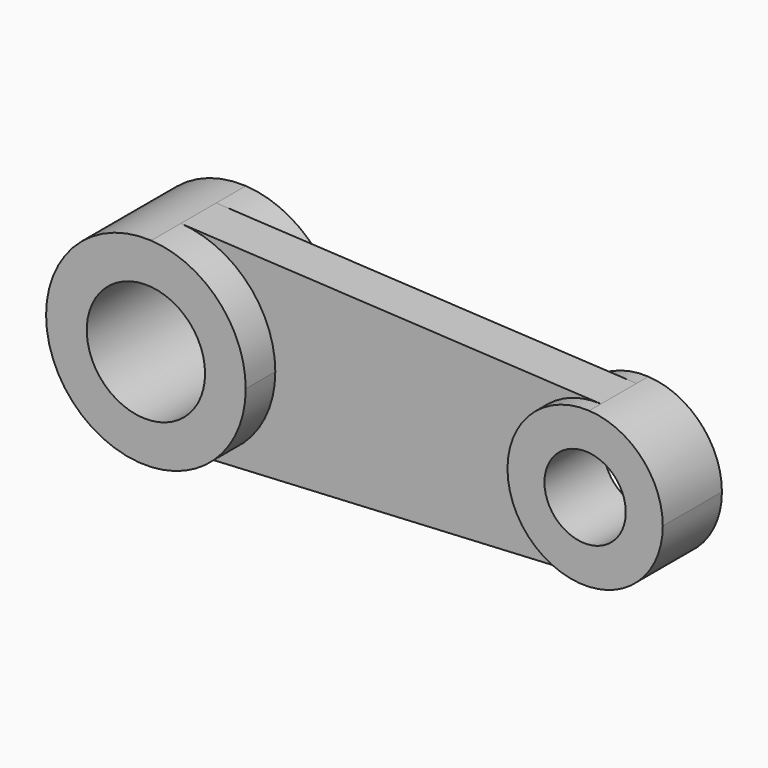
from build123d import *

# Parameters (mm, degrees)
F0_R     = 25.4
F1_DEPTH = 25.4
F2_DEPTH = 15.875
F3_DEPTH = 9.525


with BuildPart() as f1:
    # F0 (on Front) → F1 (new body, symmetric)
    with BuildSketch(Plane.XZ):
        with BuildLine():
            ThreePointArc((-40.645878, -42.803092), (-11.806073, -29.499996), (-0.039299, 0))
            ThreePointArc((-0.039299, 0), (-11.806073, 29.499996), (-40.645878, 42.803092))
            ThreePointArc((-40.645878, 42.803092), (-85.764299, 0), (-40.645878, -42.803092))
        make_face()
        with Locations((-42.901799, 0)):
            Circle(F0_R, mode=Mode.SUBTRACT)
    extrude(amount=F1_DEPTH, both=True)


with BuildPart() as f2:
    # F0 (on Front) → F2 (new body, symmetric)
    with BuildSketch(Plane.XZ):
        with BuildLine():
            ThreePointArc((139.827806, 33.291294), (115.12876, 24.185564), (104.735701, 0))
            ThreePointArc((104.735701, 0), (115.12876, -24.185564), (139.827806, -33.291294))
            ThreePointArc((139.827806, -33.291294), (162.258765, -22.944441), (171.410701, 0))
            ThreePointArc((171.410701, 0), (162.258765, 22.944441), (139.827806, 33.291294))
        make_face()
        with BuildLine():
            ThreePointArc((155.535701, 0), (138.073201, -17.4625), (120.610701, 0))
            ThreePointArc((120.610701, 0), (138.073201, 17.4625), (155.535701, 0))
        make_face(mode=Mode.SUBTRACT)
    extrude(amount=F2_DEPTH, both=True)


with BuildPart() as f3:
    # F0 (on Front) → F3 (new body, symmetric)
    with BuildSketch(Plane.XZ):
        with BuildLine():
            ThreePointArc((-40.645878, 42.803092), (-11.806073, 29.499996), (-0.039299, 0))
            Line((-0.039299, 0), (104.735701, 0))
            ThreePointArc((104.735701, 0), (115.12876, 24.185564), (139.827806, 33.291294))
            Line((139.827806, 33.291294), (-40.645878, 42.803092))
        make_face()
        with BuildLine():
            Line((104.735701, 0), (-0.039299, 0))
            ThreePointArc((-0.039299, 0), (-11.806073, -29.499996), (-40.645878, -42.803092))
            Line((-40.645878, -42.803092), (139.827806, -33.291294))
            ThreePointArc((139.827806, -33.291294), (115.12876, -24.185564), (104.735701, 0))
        make_face()
    extrude(amount=F3_DEPTH, both=True)


solid = Compound([f1.part, f2.part, f3.part])
